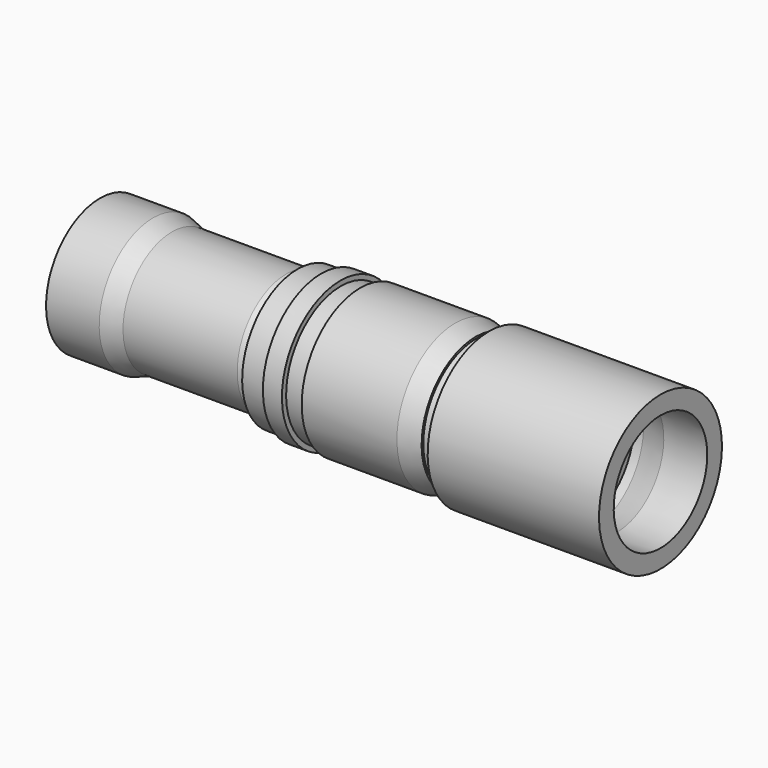
from build123d import *

# Parameters (mm, degrees)
F0_W   = 10
F0_H   = 5
F0_W_2 = 12
F0_H_2 = 5.5
F0_H_3 = 6


with BuildPart() as f1:
    # F0 (on Front) → F1 (revolve)
    with BuildSketch(Plane.XZ):
        Polygon((37.860911, 32.186442), (27.919729, 35.418941), (0, 35.418941), (0, 27.686442), (216.331732, 27.686442), (216.331732, 30.686442), (201.403528, 34.686442), (197.602239, 34.686442), (197.602239, 30.686442), (188.337174, 30.686442), (188.337174, 32.686442), (183.837174, 32.686442), (183.837174, 30.686442), (103.458987, 30.686442), (97.860911, 32.186442), align=None)
        with Locations((131.500702, 33.386442)):
            Rectangle(F0_W, F0_H)
        Polygon((186.700702, 38.386442), (136.700702, 38.386442), (136.700702, 32.886442), (168.177182, 32.886442), (173.846135, 30.886442), (183.688472, 30.886442), (183.688472, 32.886442), (188.688472, 32.886442), (188.688472, 30.886442), (197.402239, 30.886442), (197.402239, 35.518974), align=None)
        with Locations((109.800702, 33.636442)):
            Rectangle(F0_W_2, F0_H_2)
        with Locations((121.300702, 35.386442)):
            Rectangle(F0_W, F0_H_3)
        Polygon((294.48384, 40.36814), (204.45603, 40.36814), (204.45603, 34.075582), (216.358062, 30.886442), (233.328894, 30.886442), (233.328894, 33.554699), (240.434825, 33.554699), (240.434825, 30.886442), (253.137797, 30.886442), (253.137797, 34.497729), (258.036107, 34.497729), (271.513611, 30.886442), (294.48384, 30.721852), align=None)
    revolve(axis=Axis((93.246964, 0, 0), (1, 0, 0)))


solid = f1.part
